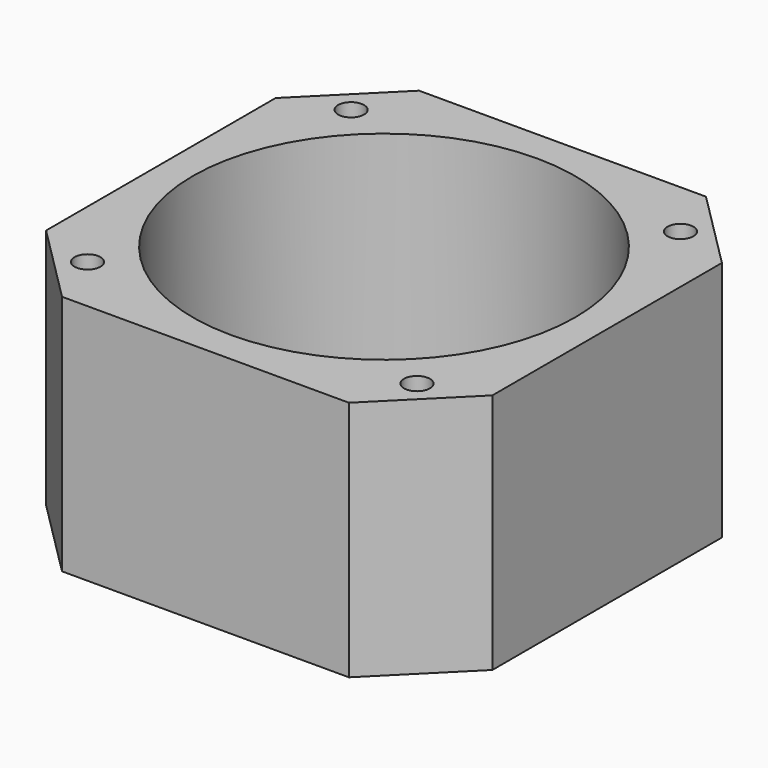
from build123d import *

# Parameters (mm, degrees)
SKETCH043_W     = 42
SKETCH043_H     = 42
PAD018_DEPTH    = 22.75
CHAMFER012_SIZE = 7.5
SKETCH047_R     = 1.22
POCKET011_DEPTH = 22.751
SKETCH060_R     = 18
POCKET018_DEPTH = 22.751


with BuildPart() as part:
    # Sketch043 → Pad018 (new body)
    with BuildSketch(Plane.XY):
        Rectangle(SKETCH043_W, SKETCH043_H)
    extrude(amount=PAD018_DEPTH)

    # Chamfer012
    chamfer012_edges = [part.edges().sort_by_distance(p)[0] for p in [
        (-21, -21, 11.375),
        (-21, 21, 11.375),
        (21, -21, 11.375),
        (21, 21, 11.375),
    ]]
    chamfer(chamfer012_edges, length=CHAMFER012_SIZE)

    # Sketch047 (on Face2 of Chamfer012) → Pocket011 (cut, through all)
    with BuildSketch(Plane(origin=(0, 0, 0), x_dir=(1, 0, 0), z_dir=(0, 0, -1))):
        with Locations((-15.5, 15.5)):
            Circle(SKETCH047_R)
        with Locations((15.5, 15.5)):
            Circle(SKETCH047_R)
        with Locations((15.5, -15.5)):
            Circle(SKETCH047_R)
        with Locations((-15.5, -15.5)):
            Circle(SKETCH047_R)
    extrude(amount=-POCKET011_DEPTH, mode=Mode.SUBTRACT)

    # Sketch060 (on Face5 of Pocket011) → Pocket018 (cut, through all)
    with BuildSketch(Plane.XY.offset(22.75)):
        Circle(SKETCH060_R)
    extrude(amount=-POCKET018_DEPTH, mode=Mode.SUBTRACT)


with BuildPart() as part_1:
    # Body012 placement: moved
    add(part.part.moved(Location((0, 0, 9.6))))


solid = part_1.part
